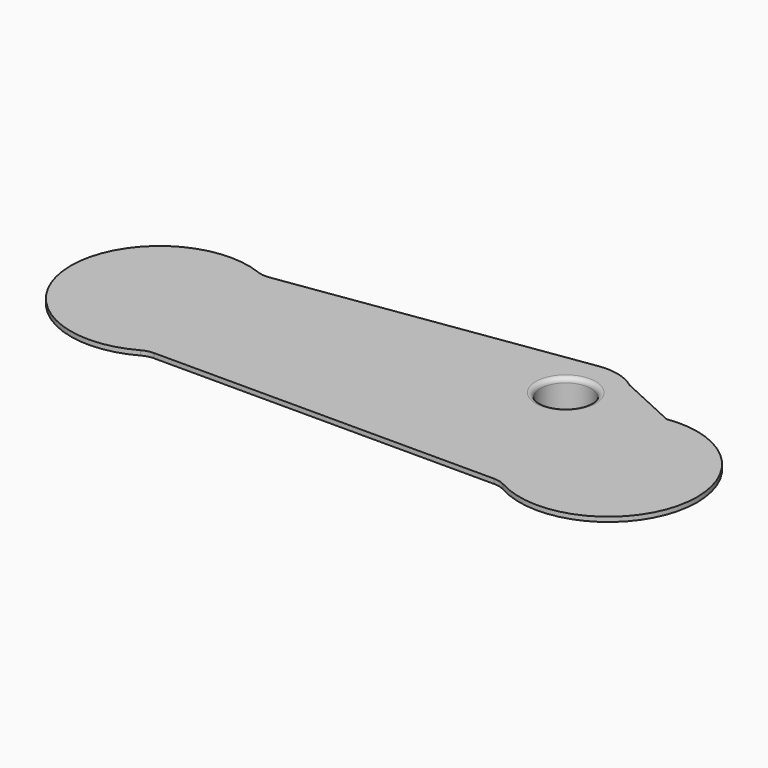
from build123d import *

# Parameters (mm, degrees)
F0_R     = 5.4
F1_DEPTH = 1
F2_R     = 9.25
F2_R_2   = 5.4
F3_DEPTH = 9
F4_R     = 1


with BuildPart() as f1:
    # F0 (on Top) → F1 (new body)
    with BuildSketch(Plane.XY):
        with BuildLine():
            ThreePointArc((25.1983354472, -0.625), (26.3689500386, -0.1587708172), (27.6189500386, 0))
            Line((27.6189500386, 0), (100.3810499614, 0))
            ThreePointArc((100.3810499614, 0), (101.6310499614, -0.1587708172), (102.8016645528, -0.625))
            ThreePointArc((102.8016645528, -0.625), (130.6811062012, 12.5335506494), (109.3784879352, 34.8182803278))
            Line((109.3784879352, 34.8182803278), (96.9014291121, 40.5587357108))
            ThreePointArc((96.9014291121, 40.5587357108), (92.9828428426, 42.4600025358), (88.6335206854, 42.691369483))
            Line((88.6335206854, 42.691369483), (25.4897410073, 33.3968526715))
            ThreePointArc((25.4897410073, 33.3968526715), (24.1939378933, 33.3758798492), (22.936271789, 33.688644201))
            ThreePointArc((22.936271789, 33.688644201), (-2.9588483895, 14.7501729139), (25.1983354472, -0.625))
        make_face()
        with Locations((90.2354166667, 31.8086341069)):
            Circle(F0_R, mode=Mode.SUBTRACT)
    extrude(amount=F1_DEPTH)

    # F2 (on face) → F3 (join)
    with BuildSketch(Plane(origin=(0, 0, 0), x_dir=(1, 0, 0), z_dir=(0, 0, -1))):
        with Locations((90.2354166667, -31.8086341069)):
            Circle(F2_R)
        with Locations((90.2354166667, -31.8086341069)):
            Circle(F2_R_2, mode=Mode.SUBTRACT)
    extrude(amount=F3_DEPTH)

    # F4
    f4_edges = [f1.edges().sort_by_distance(p)[0] for p in [
        (80.985417, 31.808634, -9),
        (84.835417, 31.808634, 1),
    ]]
    fillet(f4_edges, radius=F4_R)


solid = f1.part
